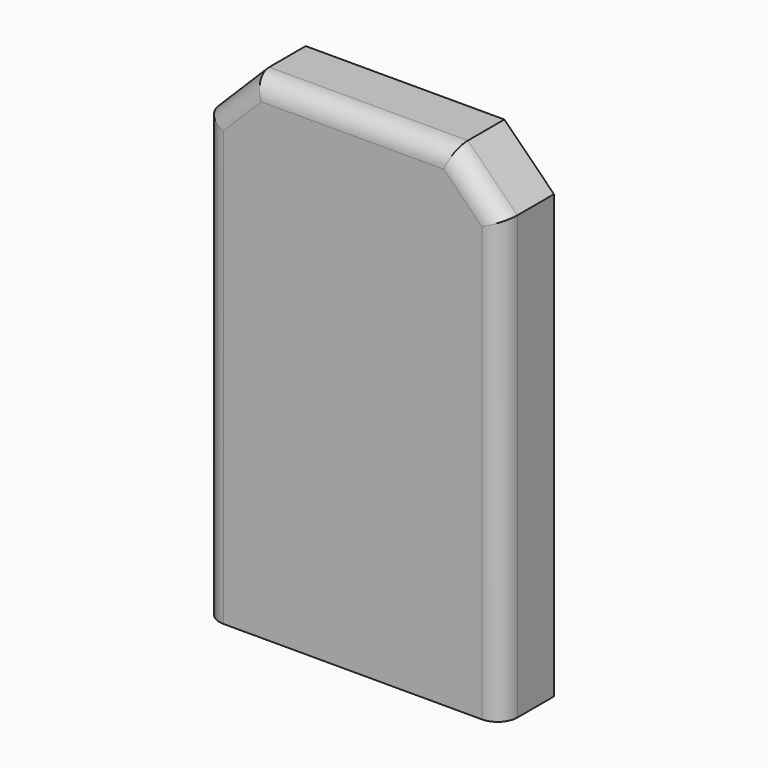
from build123d import *

# Parameters (mm, degrees)
F0_W     = 30.0269816071
F0_H     = 49.5728440583
F1_DEPTH = 6.6
F2_SIZE  = 5
F3_R     = 2


with BuildPart() as f1:
    # F0 (on Front) → F1 (new body)
    with BuildSketch(Plane.XZ):
        Rectangle(F0_W, F0_H)
    extrude(amount=F1_DEPTH)

    # F2
    f2_edges = [f1.edges().sort_by_distance(p)[0] for p in [
        (-15.013491, -3.3, 24.786422),
        (15.013491, -3.3, 24.786422),
    ]]
    chamfer(f2_edges, length=F2_SIZE)

    # F3
    f3_edges = [f1.edges().sort_by_distance(p)[0] for p in [
        (12.513491, -6.6, 22.286422),
        (-15.013491, -6.6, -2.5),
        (0, -6.6, 24.786422),
        (15.013491, -6.6, -2.5),
        (-12.513491, -6.6, 22.286422),
    ]]
    fillet(f3_edges, radius=F3_R)


solid = f1.part
